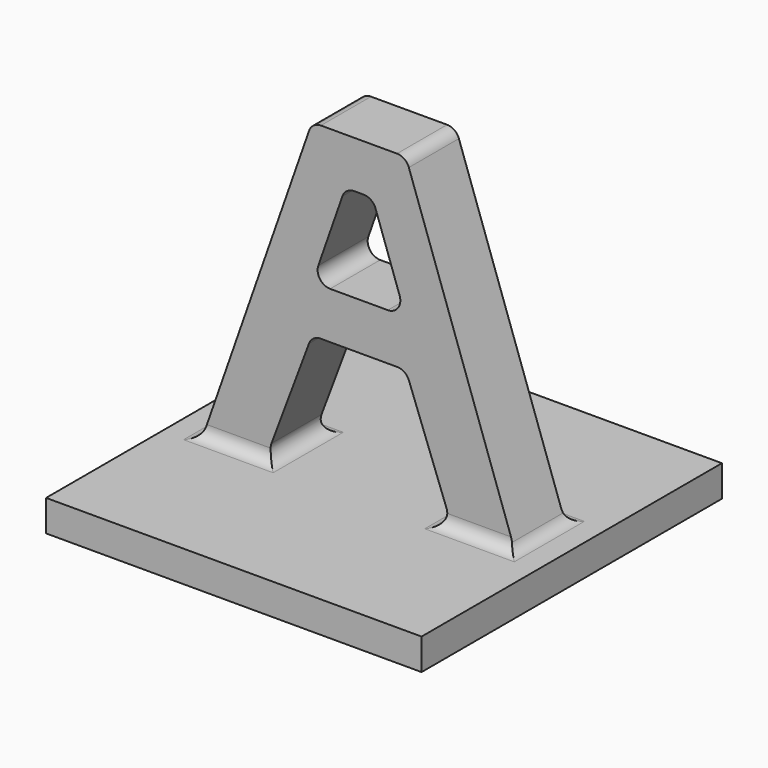
from build123d import *

# Parameters (mm, degrees)
F0_W     = 76.2
F0_H     = 76.2
F2_DEPTH = 6.35
F3_DEPTH = 6.35
F4_R     = 2.54
F6_DEPTH = 3.175


with BuildPart() as f2:
    # F0 (on Top) → F2 (new body)
    with BuildSketch(Plane.XY):
        Rectangle(F0_W, F0_H)
    extrude(amount=-F2_DEPTH)

    # F1 (on Front) → F3 (join, symmetric)
    with BuildSketch(Plane.XZ):
        Polygon((19.05, 0), (31.75, 0), (9.525, 63.5), (-9.525, 63.5), (-31.75, 0), (-19.05, 0), (-9.525, 25.4), (9.525, 25.4), align=None)
        Polygon((2.767193, 53.975), (9.434693, 34.925), (-9.434693, 34.925), (-2.767193, 53.975), align=None, mode=Mode.SUBTRACT)
    extrude(amount=F3_DEPTH, both=True)

    # F4
    f4_edges = [f2.edges().sort_by_distance(p)[0] for p in [
        (25.4, 6.35, 0),
        (19.05, 0, 0),
        (31.75, 0, 0),
        (25.4, -6.35, 0),
        (-25.4, -6.35, 0),
        (-19.05, 0, 0),
        (-25.4, 6.35, 0),
        (-31.75, 0, 0),
        (9.434693, 0, 34.925),
        (-9.434693, 0, 34.925),
        (2.767193, 0, 53.975),
        (-2.767193, 0, 53.975),
        (9.525, 0, 63.5),
        (-9.525, 0, 63.5),
        (9.525, 0, 25.4),
        (-9.525, 0, 25.4),
    ]]
    fillet(f4_edges, radius=F4_R)

    # F5 (on face) → F6 (cut)
    with BuildSketch(Plane(origin=(0, 0, -6.35), x_dir=(1, 0, 0), z_dir=(0, 0, -1))):
        Polygon((-38.1, -14.2875), (-38.1, -23.8125), (-31.75, -27.478674), (-31.75, -10.621326), align=None)
        Polygon((-31.75, 27.478674), (-38.1, 23.8125), (-38.1, 14.2875), (-31.75, 10.621326), align=None)
    extrude(amount=-F6_DEPTH, mode=Mode.SUBTRACT)


solid = f2.part
